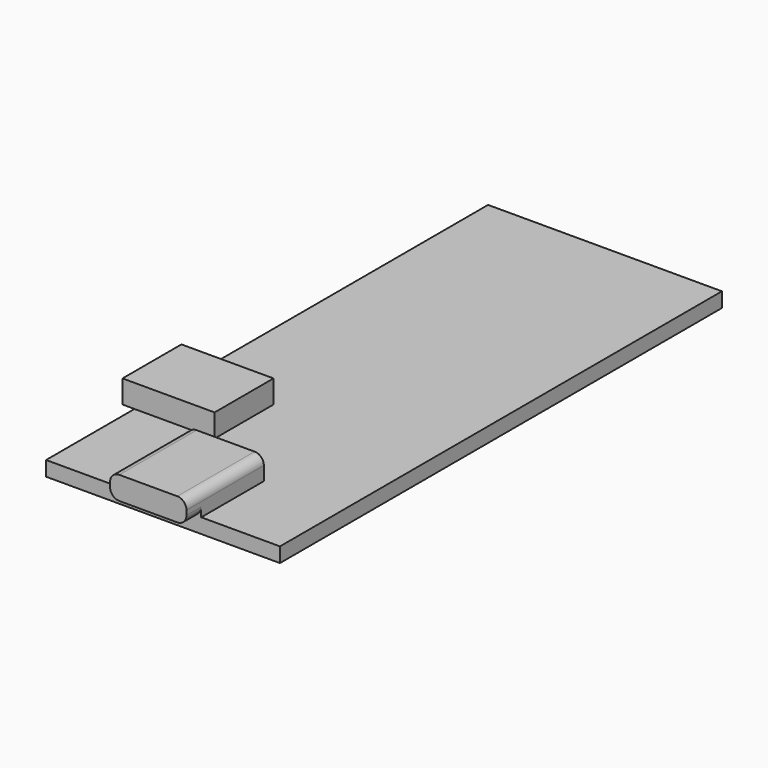
from build123d import *

# Parameters (mm, degrees)
SKETCH_W     = 25.4
SKETCH_H     = 60
PAD_DEPTH    = 1.6
SKETCH001_W  = 8.3
SKETCH001_H  = 10.5
PAD001_DEPTH = 2.5
FILLET_R     = 1
SKETCH002_W  = 10
SKETCH002_H  = 8
PAD002_DEPTH = 2.5


with BuildPart() as part:
    # Sketch → Pad (new body)
    with BuildSketch(Plane.XY):
        with Locations((0, 30)):
            Rectangle(SKETCH_W, SKETCH_H)
    extrude(amount=PAD_DEPTH)

    # Sketch001 (on DatumPlane) → Pad001 (join)
    with BuildSketch(Plane.XY.offset(1.6)):
        with Locations((0, 3.25)):
            Rectangle(SKETCH001_W, SKETCH001_H)
    extrude(amount=PAD001_DEPTH)

    # Fillet
    fillet_edges = [part.edges().sort_by_distance(p)[0] for p in [
        (4.15, 3.25, 4.1),
        (-4.15, 3.25, 4.1),
        (-4.15, -1, 1.6),
        (4.15, -1, 1.6),
    ]]
    fillet(fillet_edges, radius=FILLET_R)

    # Sketch002 (on DatumPlane) → Pad002 (join)
    with BuildSketch(Plane.XY.offset(1.6)):
        with Locations((-9, 16)):
            Rectangle(SKETCH002_W, SKETCH002_H)
    extrude(amount=PAD002_DEPTH)


solid = part.part
